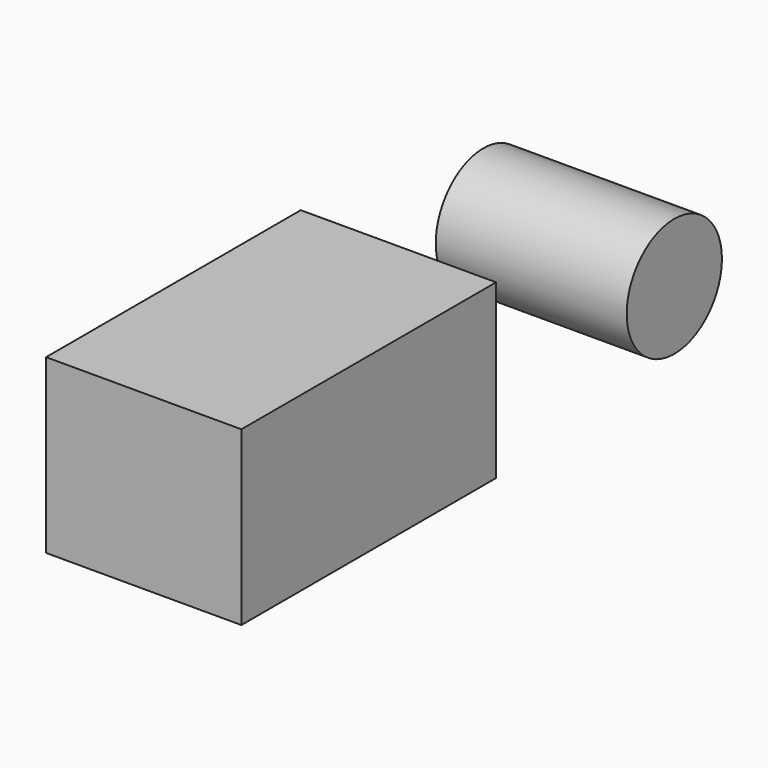
from build123d import *

# Parameters (mm, degrees)
F0_W     = 77.917855
F0_H     = 68.764854
F1_DEPTH = 127
F2_R     = 23.736437
F3_DEPTH = 76.2


with BuildPart() as f1:
    # F0 (on Front) → F1 (new body)
    with BuildSketch(Plane.XZ):
        with Locations((1.742656, -5.294116)):
            Rectangle(F0_W, F0_H)
    extrude(amount=F1_DEPTH)


with BuildPart() as f3:
    # F2 (on Right) → F3 (new body)
    with BuildSketch(Plane.YZ):
        with Locations((44.538312, 21.108771)):
            Circle(F2_R)
    extrude(amount=F3_DEPTH)


solid = Compound([f1.part, f3.part])
